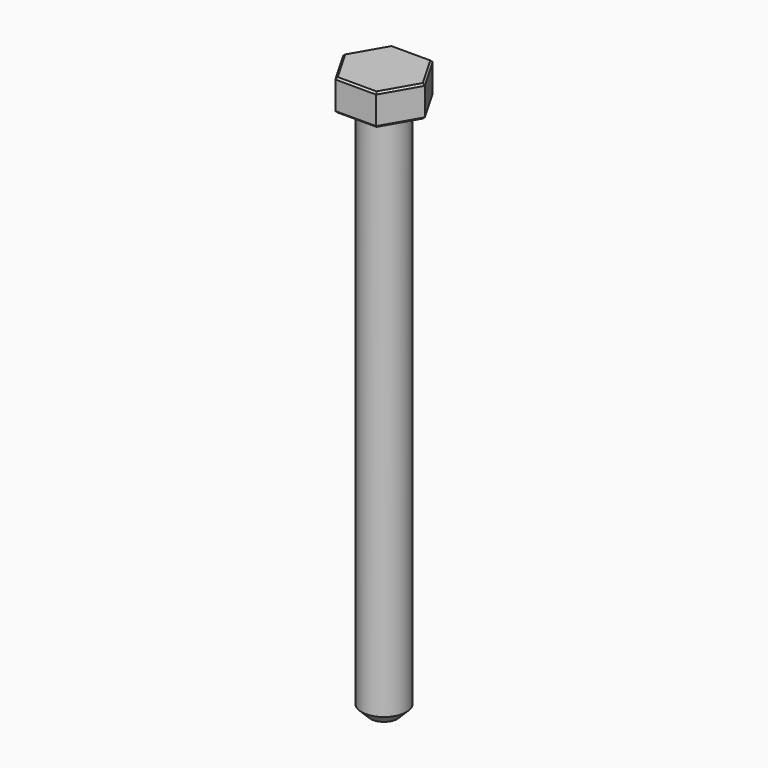
from build123d import *

# Parameters (mm, degrees)
F0_R     = 2.5
F1_DEPTH = 3.5
F2_DEPTH = 60
F3_SIZE  = 1
F4_SIZE  = 0.2


with BuildPart() as f1:
    # F0 (on Top) → F1 (new body)
    with BuildSketch(Plane.XY):
        Polygon((2.280534, 3.95), (-2.280534, 3.95), (-4.561067, 0), (-2.280534, -3.95), (2.280534, -3.95), (4.561067, 0), align=None)
        Circle(F0_R, mode=Mode.SUBTRACT)
        Circle(F0_R)
    extrude(amount=F1_DEPTH)

    # F0 (on Top) → F2 (join)
    with BuildSketch(Plane.XY):
        Circle(F0_R)
    extrude(amount=-F2_DEPTH)

    # F3
    f3_edges = [f1.edges().sort_by_distance(p)[0] for p in [
        (-2.5, 0, -60),
    ]]
    chamfer(f3_edges, length=F3_SIZE)

    # F4
    f4_edges = [f1.edges().sort_by_distance(p)[0] for p in [
        (0, 3.95, 3.5),
        (-3.4208, 1.975, 3.5),
        (-3.4208, -1.975, 3.5),
        (0, -3.95, 3.5),
        (3.4208, -1.975, 3.5),
        (3.4208, 1.975, 3.5),
        (0, 3.95, 0),
        (3.4208, 1.975, 0),
        (-3.4208, 1.975, 0),
        (3.4208, -1.975, 0),
        (-3.4208, -1.975, 0),
        (0, -3.95, 0),
        (-2.5, 0, 0),
    ]]
    chamfer(f4_edges, length=F4_SIZE)


solid = f1.part
